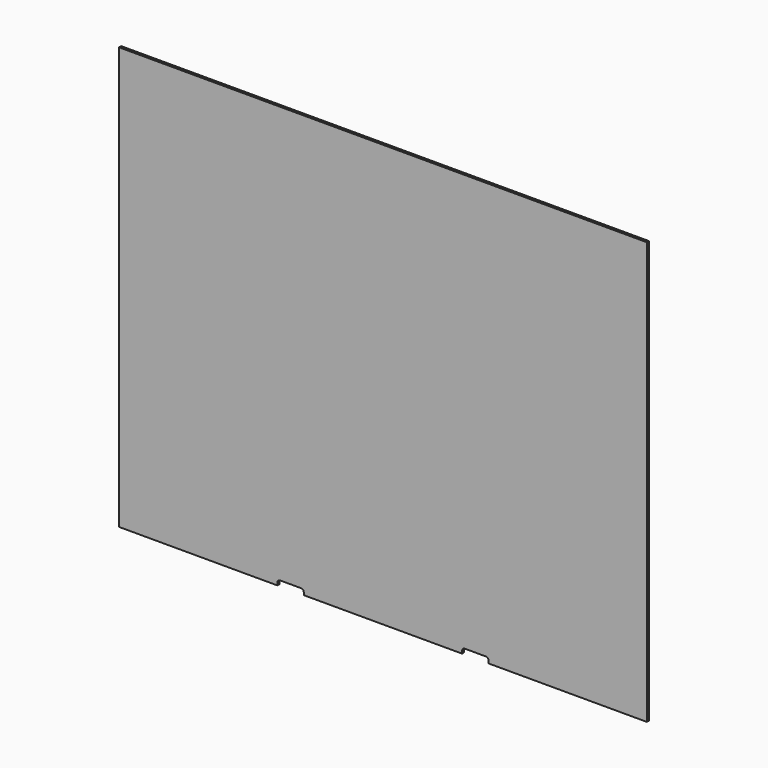
from build123d import *

# Parameters (mm, degrees)
F0_W     = 2000
F0_H     = 1600
F1_DEPTH = 10
F3_DEPTH = 18


with BuildPart() as f1:
    # F0 (on Front) → F1 (new body)
    with BuildSketch(Plane.XZ):
        Rectangle(F0_W, F0_H)
    extrude(amount=F1_DEPTH)

    # F2 (on face) → F3 (cut)
    with BuildSketch(Plane.XZ.offset(10)):
        with BuildLine():
            Line((-400, -790), (-400, -800))
            Line((-400, -800), (-300, -800))
            Line((-300, -800), (-300, -790))
            ThreePointArc((-300, -790), (-302.928932, -782.928932), (-310, -780))
            Line((-310, -780), (-390, -780))
            ThreePointArc((-390, -780), (-397.071068, -782.928932), (-400, -790))
        make_face()
        with BuildLine():
            Line((300, -790), (300, -800))
            Line((300, -800), (400, -800))
            Line((400, -800), (400, -790))
            ThreePointArc((400, -790), (397.071068, -782.928932), (390, -780))
            Line((390, -780), (310, -780))
            ThreePointArc((310, -780), (302.928932, -782.928932), (300, -790))
        make_face()
    extrude(amount=-F3_DEPTH, mode=Mode.SUBTRACT)


solid = f1.part
